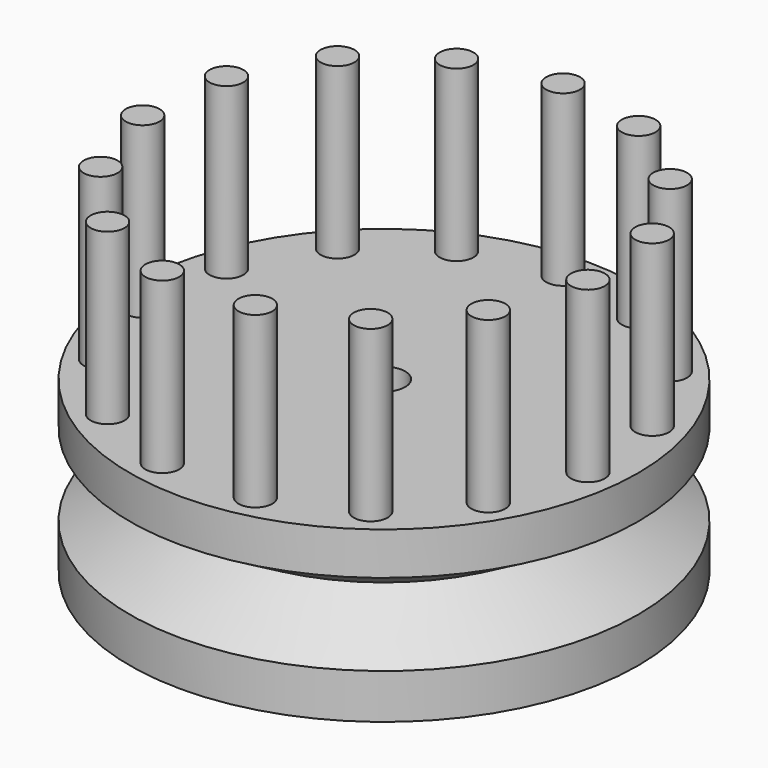
from build123d import *

# Parameters (mm, degrees)
F0_R     = 38.1
F0_R_2   = 3.175
F1_DEPTH = 25.4
F2_R     = 2.54
F3_DEPTH = 25.4


with BuildPart() as f1:
    # F0 (on Top) → F1 (new body)
    with BuildSketch(Plane.XY):
        Circle(F0_R)
        Circle(F0_R_2, mode=Mode.SUBTRACT)
    extrude(amount=F1_DEPTH)

    # F2 (on face) → F3 (join)
    with BuildSketch(Plane.XY.offset(25.4)):
        with Locations((13.647064, 30.651807)):
            Circle(F2_R)
        with Locations((0, 33.55258)):
            Circle(F2_R)
        with Locations((-13.647064, 30.651807)):
            Circle(F2_R)
        with Locations((-24.934426, 22.451058)):
            Circle(F2_R)
        with Locations((-31.910399, 10.368317)):
            Circle(F2_R)
        with Locations((-33.368775, -3.5072)):
            Circle(F2_R)
        with Locations((-29.057386, -16.77629)):
            Circle(F2_R)
        with Locations((-19.721711, -27.144607)):
            Circle(F2_R)
        with Locations((-6.975974, -32.819375)):
            Circle(F2_R)
        with Locations((6.975974, -32.819375)):
            Circle(F2_R)
        with Locations((19.721711, -27.144607)):
            Circle(F2_R)
        with Locations((29.057386, -16.77629)):
            Circle(F2_R)
        with Locations((33.368775, -3.5072)):
            Circle(F2_R)
        with Locations((31.910399, 10.368317)):
            Circle(F2_R)
        with Locations((24.934426, 22.451058)):
            Circle(F2_R)
    extrude(amount=F3_DEPTH)

    # F5 (on Right) → F6 (revolve, cut)
    with BuildSketch(Plane.YZ):
        Polygon((-27.45885, 12.864876), (-38.457373, 19.214876), (-38.457373, 6.514876), align=None)
    revolve(axis=Axis((0, 0, 4.729655), (0, 0, -1)), mode=Mode.SUBTRACT)


solid = f1.part
